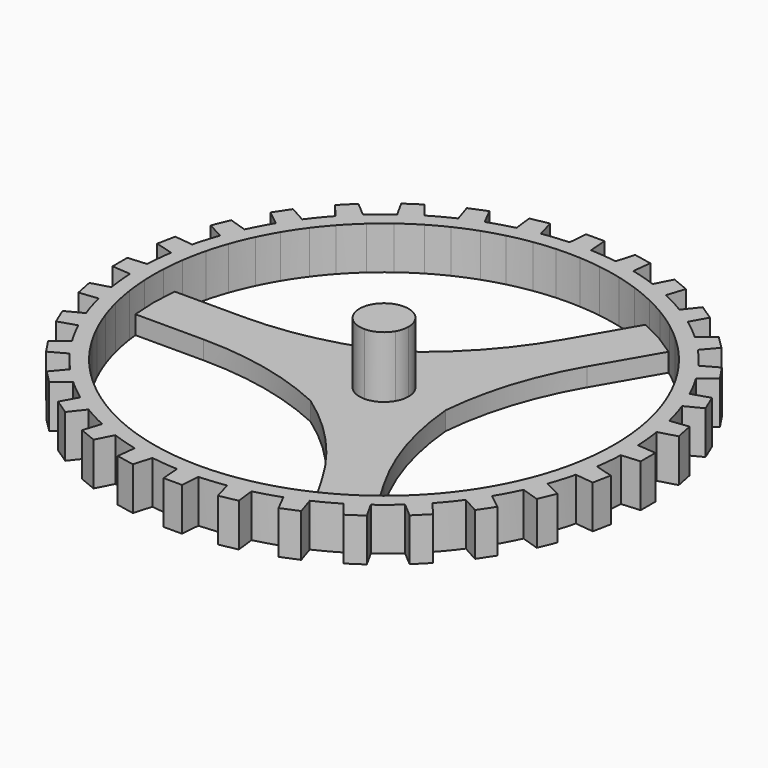
from build123d import *

# Parameters (mm, degrees)
F1_DEPTH = 17.78
F3_DEPTH = 7.62
F4_DEPTH = 33.02


with BuildPart() as f1:
    # F0 (on Top) → F1 (new body)
    with BuildSketch(Plane.XY):
        with BuildLine():
            Line((101.6, 0), (95.25, 0))
            ThreePointArc((95.25, 0), (95.2177183074, -2.479641169), (95.1208951112, -4.9576015607))
            Line((95.1208951112, -4.9576015607), (101.503019832, -4.4381262927))
            ThreePointArc((101.503019832, -4.4381262927), (101.5757520645, -2.2195928761), (101.6, 0))
        make_face()
        with BuildLine():
            ThreePointArc((95.1208951112, 4.9576015607), (95.2177183074, 2.479641169), (95.25, 0))
            Line((95.25, 0), (101.6, 0))
            ThreePointArc((101.6, 0), (101.5757520645, 2.2195928761), (101.503019832, 4.4381262927))
            Line((101.503019832, 4.4381262927), (95.1208951112, 4.9576015607))
        make_face()
        with BuildLine():
            ThreePointArc((94.2603538688, 13.6948234209), (94.7913452155, 9.3361326164), (95.1208951112, 4.9576015607))
            Line((95.1208951112, 4.9576015607), (101.503019832, 4.4381262927))
            ThreePointArc((101.503019832, 4.4381262927), (101.1107682299, 9.9585414575), (100.4185032553, 15.4494078841))
            Line((100.4185032553, 15.4494078841), (94.2603538688, 13.6948234209))
        make_face()
        with BuildLine():
            Line((101.503019832, -4.4381262927), (95.1208951112, -4.9576015607))
            ThreePointArc((95.1208951112, -4.9576015607), (94.7913452155, -9.3361326164), (94.2603538688, -13.6948234209))
            Line((94.2603538688, -13.6948234209), (100.4185032553, -15.4494078841))
            ThreePointArc((100.4185032553, -15.4494078841), (101.1107682299, -9.9585414575), (101.503019832, -4.4381262927))
        make_face()
        with BuildLine():
            Line((109.22, 0), (101.6, 0))
            ThreePointArc((101.6, 0), (101.5757520645, -2.2195928761), (101.503019832, -4.4381262927))
            Line((101.503019832, -4.4381262927), (109.22, -3.81))
            Line((109.22, -3.81), (109.22, 0))
        make_face()
        with BuildLine():
            ThreePointArc((101.503019832, 4.4381262927), (101.5757520645, 2.2195928761), (101.6, 0))
            Line((101.6, 0), (109.22, 0))
            Line((109.22, 0), (109.22, 3.81))
            Line((109.22, 3.81), (101.503019832, 4.4381262927))
        make_face()
        with BuildLine():
            ThreePointArc((92.325993699, 23.4195086946), (93.4197979584, 18.582353172), (94.2603538688, 13.6948234209))
            Line((94.2603538688, 13.6948234209), (100.4185032553, 15.4494078841))
            ThreePointArc((100.4185032553, 15.4494078841), (99.647784489, 19.8211767168), (98.6868322801, 24.1551057651))
            Line((98.6868322801, 24.1551057651), (92.325993699, 23.4195086946))
        make_face()
        with BuildLine():
            Line((100.4185032553, -15.4494078841), (94.2603538688, -13.6948234209))
            ThreePointArc((94.2603538688, -13.6948234209), (93.4197979584, -18.582353172), (92.325993699, -23.4195086946))
            Line((92.325993699, -23.4195086946), (98.6868322801, -24.1551057651))
            ThreePointArc((98.6868322801, -24.1551057651), (99.647784489, -19.8211767168), (100.4185032553, -15.4494078841))
        make_face()
        with BuildLine():
            ThreePointArc((89.777440089, 31.8209640185), (91.1485669785, 27.6496155085), (92.325993699, 23.4195086946))
            Line((92.325993699, 23.4195086946), (98.6868322801, 24.1551057651))
            ThreePointArc((98.6868322801, 24.1551057651), (97.2251381104, 29.4929232091), (95.4749599138, 34.7432299802))
            Line((95.4749599138, 34.7432299802), (89.777440089, 31.8209640185))
        make_face()
        with BuildLine():
            ThreePointArc((98.6868322801, 24.1551057651), (99.647784489, 19.8211767168), (100.4185032553, 15.4494078841))
            Line((100.4185032553, 15.4494078841), (107.8646624525, 17.5709730523))
            Line((107.8646624525, 17.5709730523), (106.3780741988, 25.0445568889))
            Line((106.3780741988, 25.0445568889), (98.6868322801, 24.1551057651))
        make_face()
        with BuildLine():
            Line((98.6868322801, -24.1551057651), (92.325993699, -23.4195086946))
            ThreePointArc((92.325993699, -23.4195086946), (91.1485669785, -27.6496155085), (89.777440089, -31.8209640185))
            Line((89.777440089, -31.8209640185), (95.4749599138, -34.7432299802))
            ThreePointArc((95.4749599138, -34.7432299802), (97.2251381104, -29.4929232091), (98.6868322801, -24.1551057651))
        make_face()
        with BuildLine():
            Line((107.8646624525, -17.5709730523), (100.4185032553, -15.4494078841))
            ThreePointArc((100.4185032553, -15.4494078841), (99.647784489, -19.8211767168), (98.6868322801, -24.1551057651))
            Line((98.6868322801, -24.1551057651), (106.3780741988, -25.0445568889))
            Line((106.3780741988, -25.0445568889), (107.8646624525, -17.5709730523))
        make_face()
        with BuildLine():
            ThreePointArc((85.9830561259, 40.9814172431), (87.9995254717, 36.4505969328), (89.777440089, 31.8209640185))
            Line((89.777440089, 31.8209640185), (95.4749599138, 34.7432299802))
            ThreePointArc((95.4749599138, 34.7432299802), (93.8661605031, 38.8806367283), (92.0781651079, 42.9438180693))
            Line((92.0781651079, 42.9438180693), (85.9830561259, 40.9814172431))
        make_face()
        with BuildLine():
            Line((95.4749599138, -34.7432299802), (89.777440089, -31.8209640185))
            ThreePointArc((89.777440089, -31.8209640185), (87.9995254717, -36.4505969328), (85.9830561259, -40.9814172431))
            Line((85.9830561259, -40.9814172431), (92.0781651079, -42.9438180693))
            ThreePointArc((92.0781651079, -42.9438180693), (93.8661605031, -38.8806367283), (95.4749599138, -34.7432299802))
        make_face()
        with BuildLine():
            ThreePointArc((81.8444296343, 48.7242428144), (84.0030004292, 44.9005391827), (85.9830561259, 40.9814172431))
            Line((85.9830561259, 40.9814172431), (92.0781651079, 42.9438180693))
            ThreePointArc((92.0781651079, 42.9438180693), (89.6032004578, 47.8939084615), (86.8623674059, 52.7018892323))
            Line((86.8623674059, 52.7018892323), (81.8444296343, 48.7242428144))
        make_face()
        with BuildLine():
            ThreePointArc((92.0781651079, 42.9438180693), (93.8661605031, 38.8806367283), (95.4749599138, 34.7432299802))
            Line((95.4749599138, 34.7432299802), (102.3641464182, 38.276703464))
            Line((102.3641464182, 38.276703464), (99.4480986636, 45.3166655018))
            Line((99.4480986636, 45.3166655018), (92.0781651079, 42.9438180693))
        make_face()
        with BuildLine():
            Line((92.0781651079, -42.9438180693), (85.9830561259, -40.9814172431))
            ThreePointArc((85.9830561259, -40.9814172431), (84.0030004292, -44.9005391827), (81.8444296343, -48.7242428144))
            Line((81.8444296343, -48.7242428144), (86.8623674059, -52.7018892323))
            ThreePointArc((86.8623674059, -52.7018892323), (89.6032004578, -47.8939084615), (92.0781651079, -42.9438180693))
        make_face()
        with BuildLine():
            Line((102.3641464182, -38.276703464), (95.4749599138, -34.7432299802))
            ThreePointArc((95.4749599138, -34.7432299802), (93.8661605031, -38.8806367283), (92.0781651079, -42.9438180693))
            Line((92.0781651079, -42.9438180693), (99.4480986636, -45.3166655018))
            Line((99.4480986636, -45.3166655018), (102.3641464182, -38.276703464))
        make_face()
        with BuildLine():
            ThreePointArc((76.3358379257, 56.9684329096), (79.1974805718, 52.9180646951), (81.8444296343, 48.7242428144))
            Line((81.8444296343, 48.7242428144), (86.8623674059, 52.7018892323))
            ThreePointArc((86.8623674059, 52.7018892323), (84.4773126099, 56.4459356748), (81.9309856886, 60.0822235282))
            Line((81.9309856886, 60.0822235282), (76.3358379257, 56.9684329096))
        make_face()
        with BuildLine():
            Line((86.8623674059, -52.7018892323), (81.8444296343, -48.7242428144))
            ThreePointArc((81.8444296343, -48.7242428144), (79.1974805718, -52.9180646951), (76.3358379257, -56.9684329096))
            Line((76.3358379257, -56.9684329096), (81.9309856886, -60.0822235282))
            ThreePointArc((81.9309856886, -60.0822235282), (84.4773126099, -56.4459356748), (86.8623674059, -52.7018892323))
        make_face()
        with BuildLine():
            ThreePointArc((70.7661836477, 63.7550762837), (73.6292456828, 60.4259603166), (76.3358379257, 56.9684329096))
            Line((76.3358379257, 56.9684329096), (81.9309856886, 60.0822235282))
            ThreePointArc((81.9309856886, 60.0822235282), (78.5378620617, 64.454357671), (74.9117028315, 68.6352444367))
            Line((74.9117028315, 68.6352444367), (70.7661836477, 63.7550762837))
        make_face()
        with BuildLine():
            ThreePointArc((81.9309856886, 60.0822235282), (84.4773126099, 56.4459356748), (86.8623674059, 52.7018892323))
            Line((86.8623674059, 52.7018892323), (92.9298336435, 57.5114816275))
            Line((92.9298336435, 57.5114816275), (88.6963884679, 63.8472800733))
            Line((88.6963884679, 63.8472800733), (81.9309856886, 60.0822235282))
        make_face()
        with BuildLine():
            Line((81.9309856886, -60.0822235282), (76.3358379257, -56.9684329096))
            ThreePointArc((76.3358379257, -56.9684329096), (73.6292456828, -60.4259603166), (70.7661836477, -63.7550762837))
            Line((70.7661836477, -63.7550762837), (74.9117028315, -68.6352444367))
            ThreePointArc((74.9117028315, -68.6352444367), (78.5378620617, -64.454357671), (81.9309856886, -60.0822235282))
        make_face()
        with BuildLine():
            Line((92.9298336435, -57.5114816275), (86.8623674059, -52.7018892323))
            ThreePointArc((86.8623674059, -52.7018892323), (84.4773126099, -56.4459356748), (81.9309856886, -60.0822235282))
            Line((81.9309856886, -60.0822235282), (88.6963884679, -63.8472800733))
            Line((88.6963884679, -63.8472800733), (92.9298336435, -57.5114816275))
        make_face()
        with BuildLine():
            ThreePointArc((63.7550762837, 70.7661836477), (67.351920908, 67.351920908), (70.7661836477, 63.7550762837))
            Line((70.7661836477, 63.7550762837), (74.9117028315, 68.6352444367))
            ThreePointArc((74.9117028315, 68.6352444367), (71.8420489686, 71.8420489686), (68.6352444367, 74.9117028315))
            Line((68.6352444367, 74.9117028315), (63.7550762837, 70.7661836477))
        make_face()
        with BuildLine():
            Line((74.9117028315, -68.6352444367), (70.7661836477, -63.7550762837))
            ThreePointArc((70.7661836477, -63.7550762837), (67.351920908, -67.351920908), (63.7550762837, -70.7661836477))
            Line((63.7550762837, -70.7661836477), (68.6352444367, -74.9117028315))
            ThreePointArc((68.6352444367, -74.9117028315), (71.8420489686, -71.8420489686), (74.9117028315, -68.6352444367))
        make_face()
        with BuildLine():
            ThreePointArc((56.9684329096, 76.3358379257), (60.4259603166, 73.6292456828), (63.7550762837, 70.7661836477))
            Line((63.7550762837, 70.7661836477), (68.6352444367, 74.9117028315))
            ThreePointArc((68.6352444367, 74.9117028315), (64.454357671, 78.5378620617), (60.0822235282, 81.9309856886))
            Line((60.0822235282, 81.9309856886), (56.9684329096, 76.3358379257))
        make_face()
        with BuildLine():
            ThreePointArc((68.6352444367, 74.9117028315), (71.8420489686, 71.8420489686), (74.9117028315, 68.6352444367))
            Line((74.9117028315, 68.6352444367), (79.9242794775, 74.5361258049))
            Line((79.9242794775, 74.5361258049), (74.5361258049, 79.9242794775))
            Line((74.5361258049, 79.9242794775), (68.6352444367, 74.9117028315))
        make_face()
        with BuildLine():
            Line((68.6352444367, -74.9117028315), (63.7550762837, -70.7661836477))
            ThreePointArc((63.7550762837, -70.7661836477), (60.4259603166, -73.6292456828), (56.9684329096, -76.3358379257))
            Line((56.9684329096, -76.3358379257), (60.0822235282, -81.9309856886))
            ThreePointArc((60.0822235282, -81.9309856886), (64.454357671, -78.5378620617), (68.6352444367, -74.9117028315))
        make_face()
        with BuildLine():
            Line((79.9242794775, -74.5361258049), (74.9117028315, -68.6352444367))
            ThreePointArc((74.9117028315, -68.6352444367), (71.8420489686, -71.8420489686), (68.6352444367, -74.9117028315))
            Line((68.6352444367, -74.9117028315), (74.5361258049, -79.9242794775))
            Line((74.5361258049, -79.9242794775), (79.9242794775, -74.5361258049))
        make_face()
        with BuildLine():
            ThreePointArc((48.7242428144, 81.8444296343), (52.9180646951, 79.1974805718), (56.9684329096, 76.3358379257))
            Line((56.9684329096, 76.3358379257), (60.0822235282, 81.9309856886))
            ThreePointArc((60.0822235282, 81.9309856886), (56.4459356748, 84.4773126099), (52.7018892323, 86.8623674059))
            Line((52.7018892323, 86.8623674059), (48.7242428144, 81.8444296343))
        make_face()
        with BuildLine():
            Line((60.0822235282, -81.9309856886), (56.9684329096, -76.3358379257))
            ThreePointArc((56.9684329096, -76.3358379257), (52.9180646951, -79.1974805718), (48.7242428144, -81.8444296343))
            Line((48.7242428144, -81.8444296343), (52.7018892323, -86.8623674059))
            ThreePointArc((52.7018892323, -86.8623674059), (56.4459356748, -84.4773126099), (60.0822235282, -81.9309856886))
        make_face()
        with BuildLine():
            ThreePointArc((40.9814172431, 85.9830561259), (44.9005391827, 84.0030004292), (48.7242428144, 81.8444296343))
            Line((48.7242428144, 81.8444296343), (52.7018892323, 86.8623674059))
            ThreePointArc((52.7018892323, 86.8623674059), (47.8939084615, 89.6032004578), (42.9438180693, 92.0781651079))
            Line((42.9438180693, 92.0781651079), (40.9814172431, 85.9830561259))
        make_face()
        with BuildLine():
            ThreePointArc((52.7018892323, 86.8623674059), (56.4459356748, 84.4773126099), (60.0822235282, 81.9309856886))
            Line((60.0822235282, 81.9309856886), (63.8472800733, 88.6963884679))
            Line((63.8472800733, 88.6963884679), (57.5114816275, 92.9298336435))
            Line((57.5114816275, 92.9298336435), (52.7018892323, 86.8623674059))
        make_face()
        with BuildLine():
            Line((52.7018892323, -86.8623674059), (48.7242428144, -81.8444296343))
            ThreePointArc((48.7242428144, -81.8444296343), (44.9005391827, -84.0030004292), (40.9814172431, -85.9830561259))
            Line((40.9814172431, -85.9830561259), (42.9438180693, -92.0781651079))
            ThreePointArc((42.9438180693, -92.0781651079), (47.8939084615, -89.6032004578), (52.7018892323, -86.8623674059))
        make_face()
        with BuildLine():
            Line((63.8472800733, -88.6963884679), (60.0822235282, -81.9309856886))
            ThreePointArc((60.0822235282, -81.9309856886), (56.4459356748, -84.4773126099), (52.7018892323, -86.8623674059))
            Line((52.7018892323, -86.8623674059), (57.5114816275, -92.9298336435))
            Line((57.5114816275, -92.9298336435), (63.8472800733, -88.6963884679))
        make_face()
        with BuildLine():
            ThreePointArc((31.8209640185, 89.777440089), (36.4505969328, 87.9995254717), (40.9814172431, 85.9830561259))
            Line((40.9814172431, 85.9830561259), (42.9438180693, 92.0781651079))
            ThreePointArc((42.9438180693, 92.0781651079), (38.8806367283, 93.8661605031), (34.7432299802, 95.4749599138))
            Line((34.7432299802, 95.4749599138), (31.8209640185, 89.777440089))
        make_face()
        with BuildLine():
            Line((42.9438180693, -92.0781651079), (40.9814172431, -85.9830561259))
            ThreePointArc((40.9814172431, -85.9830561259), (36.4505969328, -87.9995254717), (31.8209640185, -89.777440089))
            Line((31.8209640185, -89.777440089), (34.7432299802, -95.4749599138))
            ThreePointArc((34.7432299802, -95.4749599138), (38.8806367283, -93.8661605031), (42.9438180693, -92.0781651079))
        make_face()
        with BuildLine():
            ThreePointArc((23.4195086946, 92.325993699), (27.6496155085, 91.1485669785), (31.8209640185, 89.777440089))
            Line((31.8209640185, 89.777440089), (34.7432299802, 95.4749599138))
            ThreePointArc((34.7432299802, 95.4749599138), (29.4929232091, 97.2251381104), (24.1551057651, 98.6868322801))
            Line((24.1551057651, 98.6868322801), (23.4195086946, 92.325993699))
        make_face()
        with BuildLine():
            ThreePointArc((34.7432299802, 95.4749599138), (38.8806367283, 93.8661605031), (42.9438180693, 92.0781651079))
            Line((42.9438180693, 92.0781651079), (45.3166655018, 99.4480986636))
            Line((45.3166655018, 99.4480986636), (38.276703464, 102.3641464182))
            Line((38.276703464, 102.3641464182), (34.7432299802, 95.4749599138))
        make_face()
        with BuildLine():
            Line((34.7432299802, -95.4749599138), (31.8209640185, -89.777440089))
            ThreePointArc((31.8209640185, -89.777440089), (27.6496155085, -91.1485669785), (23.4195086946, -92.325993699))
            Line((23.4195086946, -92.325993699), (24.1551057651, -98.6868322801))
            ThreePointArc((24.1551057651, -98.6868322801), (29.4929232091, -97.2251381104), (34.7432299802, -95.4749599138))
        make_face()
        with BuildLine():
            Line((45.3166655018, -99.4480986636), (42.9438180693, -92.0781651079))
            ThreePointArc((42.9438180693, -92.0781651079), (38.8806367283, -93.8661605031), (34.7432299802, -95.4749599138))
            Line((34.7432299802, -95.4749599138), (38.276703464, -102.3641464182))
            Line((38.276703464, -102.3641464182), (45.3166655018, -99.4480986636))
        make_face()
        with BuildLine():
            ThreePointArc((13.6948234209, 94.2603538688), (18.582353172, 93.4197979584), (23.4195086946, 92.325993699))
            Line((23.4195086946, 92.325993699), (24.1551057651, 98.6868322801))
            ThreePointArc((24.1551057651, 98.6868322801), (19.8211767168, 99.647784489), (15.4494078841, 100.4185032553))
            Line((15.4494078841, 100.4185032553), (13.6948234209, 94.2603538688))
        make_face()
        with BuildLine():
            Line((24.1551057651, -98.6868322801), (23.4195086946, -92.325993699))
            ThreePointArc((23.4195086946, -92.325993699), (18.582353172, -93.4197979584), (13.6948234209, -94.2603538688))
            Line((13.6948234209, -94.2603538688), (15.4494078841, -100.4185032553))
            ThreePointArc((15.4494078841, -100.4185032553), (19.8211767168, -99.647784489), (24.1551057651, -98.6868322801))
        make_face()
        with BuildLine():
            ThreePointArc((4.9576015607, 95.1208951112), (9.3361326164, 94.7913452155), (13.6948234209, 94.2603538688))
            Line((13.6948234209, 94.2603538688), (15.4494078841, 100.4185032553))
            ThreePointArc((15.4494078841, 100.4185032553), (9.9585414575, 101.1107682299), (4.4381262927, 101.503019832))
            Line((4.4381262927, 101.503019832), (4.9576015607, 95.1208951112))
        make_face()
        with BuildLine():
            ThreePointArc((15.4494078841, 100.4185032553), (19.8211767168, 99.647784489), (24.1551057651, 98.6868322801))
            Line((24.1551057651, 98.6868322801), (25.0445568889, 106.3780741988))
            Line((25.0445568889, 106.3780741988), (17.5709730523, 107.8646624525))
            Line((17.5709730523, 107.8646624525), (15.4494078841, 100.4185032553))
        make_face()
        with BuildLine():
            Line((15.4494078841, -100.4185032553), (13.6948234209, -94.2603538688))
            ThreePointArc((13.6948234209, -94.2603538688), (9.3361326164, -94.7913452155), (4.9576015607, -95.1208951112))
            Line((4.9576015607, -95.1208951112), (4.4381262927, -101.503019832))
            ThreePointArc((4.4381262927, -101.503019832), (9.9585414575, -101.1107682299), (15.4494078841, -100.4185032553))
        make_face()
        with BuildLine():
            Line((25.0445568889, -106.3780741988), (24.1551057651, -98.6868322801))
            ThreePointArc((24.1551057651, -98.6868322801), (19.8211767168, -99.647784489), (15.4494078841, -100.4185032553))
            Line((15.4494078841, -100.4185032553), (17.5709730523, -107.8646624525))
            Line((17.5709730523, -107.8646624525), (25.0445568889, -106.3780741988))
        make_face()
        with BuildLine():
            ThreePointArc((-4.9576015607, 95.1208951112), (0, 95.25), (4.9576015607, 95.1208951112))
            Line((4.9576015607, 95.1208951112), (4.4381262927, 101.503019832))
            ThreePointArc((4.4381262927, 101.503019832), (0, 101.6), (-4.4381262927, 101.503019832))
            Line((-4.4381262927, 101.503019832), (-4.9576015607, 95.1208951112))
        make_face()
        with BuildLine():
            ThreePointArc((-13.6948234209, 94.2603538688), (-9.3361326164, 94.7913452155), (-4.9576015607, 95.1208951112))
            Line((-4.9576015607, 95.1208951112), (-4.4381262927, 101.503019832))
            ThreePointArc((-4.4381262927, 101.503019832), (-9.9585414575, 101.1107682299), (-15.4494078841, 100.4185032553))
            Line((-15.4494078841, 100.4185032553), (-13.6948234209, 94.2603538688))
        make_face()
        with BuildLine():
            ThreePointArc((-23.4195086946, 92.325993699), (-18.582353172, 93.4197979584), (-13.6948234209, 94.2603538688))
            Line((-13.6948234209, 94.2603538688), (-15.4494078841, 100.4185032553))
            ThreePointArc((-15.4494078841, 100.4185032553), (-19.8211767168, 99.647784489), (-24.1551057651, 98.6868322801))
            Line((-24.1551057651, 98.6868322801), (-23.4195086946, 92.325993699))
        make_face()
        with BuildLine():
            ThreePointArc((-31.8209640185, 89.777440089), (-27.6496155085, 91.1485669785), (-23.4195086946, 92.325993699))
            Line((-23.4195086946, 92.325993699), (-24.1551057651, 98.6868322801))
            ThreePointArc((-24.1551057651, 98.6868322801), (-29.4929232091, 97.2251381104), (-34.7432299802, 95.4749599138))
            Line((-34.7432299802, 95.4749599138), (-31.8209640185, 89.777440089))
        make_face()
        with BuildLine():
            ThreePointArc((-40.9814172431, 85.9830561259), (-36.4505969328, 87.9995254717), (-31.8209640185, 89.777440089))
            Line((-31.8209640185, 89.777440089), (-34.7432299802, 95.4749599138))
            ThreePointArc((-34.7432299802, 95.4749599138), (-38.8806367283, 93.8661605031), (-42.9438180693, 92.0781651079))
            Line((-42.9438180693, 92.0781651079), (-40.9814172431, 85.9830561259))
        make_face()
        with BuildLine():
            ThreePointArc((-48.7242428144, 81.8444296343), (-44.9005391827, 84.0030004292), (-40.9814172431, 85.9830561259))
            Line((-40.9814172431, 85.9830561259), (-42.9438180693, 92.0781651079))
            ThreePointArc((-42.9438180693, 92.0781651079), (-47.8939084615, 89.6032004578), (-52.7018892323, 86.8623674059))
            Line((-52.7018892323, 86.8623674059), (-48.7242428144, 81.8444296343))
        make_face()
        with BuildLine():
            ThreePointArc((-56.9684329096, 76.3358379257), (-52.9180646951, 79.1974805718), (-48.7242428144, 81.8444296343))
            Line((-48.7242428144, 81.8444296343), (-52.7018892323, 86.8623674059))
            ThreePointArc((-52.7018892323, 86.8623674059), (-56.4459356748, 84.4773126099), (-60.0822235282, 81.9309856886))
            Line((-60.0822235282, 81.9309856886), (-56.9684329096, 76.3358379257))
        make_face()
        with BuildLine():
            ThreePointArc((-63.7550762837, 70.7661836477), (-60.4259603166, 73.6292456828), (-56.9684329096, 76.3358379257))
            Line((-56.9684329096, 76.3358379257), (-60.0822235282, 81.9309856886))
            ThreePointArc((-60.0822235282, 81.9309856886), (-64.454357671, 78.5378620617), (-68.6352444367, 74.9117028315))
            Line((-68.6352444367, 74.9117028315), (-63.7550762837, 70.7661836477))
        make_face()
        with BuildLine():
            ThreePointArc((-70.7661836477, 63.7550762837), (-67.351920908, 67.351920908), (-63.7550762837, 70.7661836477))
            Line((-63.7550762837, 70.7661836477), (-68.6352444367, 74.9117028315))
            ThreePointArc((-68.6352444367, 74.9117028315), (-71.8420489686, 71.8420489686), (-74.9117028315, 68.6352444367))
            Line((-74.9117028315, 68.6352444367), (-70.7661836477, 63.7550762837))
        make_face()
        with BuildLine():
            ThreePointArc((-76.3358379257, 56.9684329096), (-73.6292456828, 60.4259603166), (-70.7661836477, 63.7550762837))
            Line((-70.7661836477, 63.7550762837), (-74.9117028315, 68.6352444367))
            ThreePointArc((-74.9117028315, 68.6352444367), (-78.5378620617, 64.454357671), (-81.9309856886, 60.0822235282))
            Line((-81.9309856886, 60.0822235282), (-76.3358379257, 56.9684329096))
        make_face()
        with BuildLine():
            ThreePointArc((-81.8444296343, 48.7242428144), (-79.1974805718, 52.9180646951), (-76.3358379257, 56.9684329096))
            Line((-76.3358379257, 56.9684329096), (-81.9309856886, 60.0822235282))
            ThreePointArc((-81.9309856886, 60.0822235282), (-84.4773126099, 56.4459356748), (-86.8623674059, 52.7018892323))
            Line((-86.8623674059, 52.7018892323), (-81.8444296343, 48.7242428144))
        make_face()
        with BuildLine():
            ThreePointArc((-85.9830561259, 40.9814172431), (-84.0030004292, 44.9005391827), (-81.8444296343, 48.7242428144))
            Line((-81.8444296343, 48.7242428144), (-86.8623674059, 52.7018892323))
            ThreePointArc((-86.8623674059, 52.7018892323), (-89.6032004578, 47.8939084615), (-92.0781651079, 42.9438180693))
            Line((-92.0781651079, 42.9438180693), (-85.9830561259, 40.9814172431))
        make_face()
        with BuildLine():
            ThreePointArc((-89.777440089, 31.8209640185), (-87.9995254717, 36.4505969328), (-85.9830561259, 40.9814172431))
            Line((-85.9830561259, 40.9814172431), (-92.0781651079, 42.9438180693))
            ThreePointArc((-92.0781651079, 42.9438180693), (-93.8661605031, 38.8806367283), (-95.4749599138, 34.7432299802))
            Line((-95.4749599138, 34.7432299802), (-89.777440089, 31.8209640185))
        make_face()
        with BuildLine():
            ThreePointArc((-92.325993699, 23.4195086946), (-91.1485669785, 27.6496155085), (-89.777440089, 31.8209640185))
            Line((-89.777440089, 31.8209640185), (-95.4749599138, 34.7432299802))
            ThreePointArc((-95.4749599138, 34.7432299802), (-97.2251381104, 29.4929232091), (-98.6868322801, 24.1551057651))
            Line((-98.6868322801, 24.1551057651), (-92.325993699, 23.4195086946))
        make_face()
        with BuildLine():
            ThreePointArc((-94.2603538688, 13.6948234209), (-93.4197979584, 18.582353172), (-92.325993699, 23.4195086946))
            Line((-92.325993699, 23.4195086946), (-98.6868322801, 24.1551057651))
            ThreePointArc((-98.6868322801, 24.1551057651), (-99.647784489, 19.8211767168), (-100.4185032553, 15.4494078841))
            Line((-100.4185032553, 15.4494078841), (-94.2603538688, 13.6948234209))
        make_face()
        with BuildLine():
            Line((-98.6868322801, -24.1551057651), (-92.325993699, -23.4195086946))
            ThreePointArc((-92.325993699, -23.4195086946), (-93.4197979584, -18.582353172), (-94.2603538688, -13.6948234209))
            Line((-94.2603538688, -13.6948234209), (-100.4185032553, -15.4494078841))
            ThreePointArc((-100.4185032553, -15.4494078841), (-99.647784489, -19.8211767168), (-98.6868322801, -24.1551057651))
        make_face()
        with BuildLine():
            ThreePointArc((-89.777440089, -31.8209640185), (-91.1485669785, -27.6496155085), (-92.325993699, -23.4195086946))
            Line((-92.325993699, -23.4195086946), (-98.6868322801, -24.1551057651))
            ThreePointArc((-98.6868322801, -24.1551057651), (-97.2251381104, -29.4929232091), (-95.4749599138, -34.7432299802))
            Line((-95.4749599138, -34.7432299802), (-89.777440089, -31.8209640185))
        make_face()
        with BuildLine():
            ThreePointArc((-85.9830561259, -40.9814172431), (-87.9995254717, -36.4505969328), (-89.777440089, -31.8209640185))
            Line((-89.777440089, -31.8209640185), (-95.4749599138, -34.7432299802))
            ThreePointArc((-95.4749599138, -34.7432299802), (-93.8661605031, -38.8806367283), (-92.0781651079, -42.9438180693))
            Line((-92.0781651079, -42.9438180693), (-85.9830561259, -40.9814172431))
        make_face()
        with BuildLine():
            ThreePointArc((-81.8444296343, -48.7242428144), (-84.0030004292, -44.9005391827), (-85.9830561259, -40.9814172431))
            Line((-85.9830561259, -40.9814172431), (-92.0781651079, -42.9438180693))
            ThreePointArc((-92.0781651079, -42.9438180693), (-89.6032004578, -47.8939084615), (-86.8623674059, -52.7018892323))
            Line((-86.8623674059, -52.7018892323), (-81.8444296343, -48.7242428144))
        make_face()
        with BuildLine():
            ThreePointArc((-76.3358379257, -56.9684329096), (-79.1974805718, -52.9180646951), (-81.8444296343, -48.7242428144))
            Line((-81.8444296343, -48.7242428144), (-86.8623674059, -52.7018892323))
            ThreePointArc((-86.8623674059, -52.7018892323), (-84.4773126099, -56.4459356748), (-81.9309856886, -60.0822235282))
            Line((-81.9309856886, -60.0822235282), (-76.3358379257, -56.9684329096))
        make_face()
        with BuildLine():
            ThreePointArc((-70.7661836477, -63.7550762837), (-73.6292456828, -60.4259603166), (-76.3358379257, -56.9684329096))
            Line((-76.3358379257, -56.9684329096), (-81.9309856886, -60.0822235282))
            ThreePointArc((-81.9309856886, -60.0822235282), (-78.5378620617, -64.454357671), (-74.9117028315, -68.6352444367))
            Line((-74.9117028315, -68.6352444367), (-70.7661836477, -63.7550762837))
        make_face()
        with BuildLine():
            ThreePointArc((-63.7550762837, -70.7661836477), (-67.351920908, -67.351920908), (-70.7661836477, -63.7550762837))
            Line((-70.7661836477, -63.7550762837), (-74.9117028315, -68.6352444367))
            ThreePointArc((-74.9117028315, -68.6352444367), (-71.8420489686, -71.8420489686), (-68.6352444367, -74.9117028315))
            Line((-68.6352444367, -74.9117028315), (-63.7550762837, -70.7661836477))
        make_face()
        with BuildLine():
            ThreePointArc((-56.9684329096, -76.3358379257), (-60.4259603166, -73.6292456828), (-63.7550762837, -70.7661836477))
            Line((-63.7550762837, -70.7661836477), (-68.6352444367, -74.9117028315))
            ThreePointArc((-68.6352444367, -74.9117028315), (-64.454357671, -78.5378620617), (-60.0822235282, -81.9309856886))
            Line((-60.0822235282, -81.9309856886), (-56.9684329096, -76.3358379257))
        make_face()
        with BuildLine():
            ThreePointArc((-48.7242428144, -81.8444296343), (-52.9180646951, -79.1974805718), (-56.9684329096, -76.3358379257))
            Line((-56.9684329096, -76.3358379257), (-60.0822235282, -81.9309856886))
            ThreePointArc((-60.0822235282, -81.9309856886), (-56.4459356748, -84.4773126099), (-52.7018892323, -86.8623674059))
            Line((-52.7018892323, -86.8623674059), (-48.7242428144, -81.8444296343))
        make_face()
        with BuildLine():
            ThreePointArc((-40.9814172431, -85.9830561259), (-44.9005391827, -84.0030004292), (-48.7242428144, -81.8444296343))
            Line((-48.7242428144, -81.8444296343), (-52.7018892323, -86.8623674059))
            ThreePointArc((-52.7018892323, -86.8623674059), (-47.8939084615, -89.6032004578), (-42.9438180693, -92.0781651079))
            Line((-42.9438180693, -92.0781651079), (-40.9814172431, -85.9830561259))
        make_face()
        with BuildLine():
            ThreePointArc((-31.8209640185, -89.777440089), (-36.4505969328, -87.9995254717), (-40.9814172431, -85.9830561259))
            Line((-40.9814172431, -85.9830561259), (-42.9438180693, -92.0781651079))
            ThreePointArc((-42.9438180693, -92.0781651079), (-38.8806367283, -93.8661605031), (-34.7432299802, -95.4749599138))
            Line((-34.7432299802, -95.4749599138), (-31.8209640185, -89.777440089))
        make_face()
        with BuildLine():
            ThreePointArc((-23.4195086946, -92.325993699), (-27.6496155085, -91.1485669785), (-31.8209640185, -89.777440089))
            Line((-31.8209640185, -89.777440089), (-34.7432299802, -95.4749599138))
            ThreePointArc((-34.7432299802, -95.4749599138), (-29.4929232091, -97.2251381104), (-24.1551057651, -98.6868322801))
            Line((-24.1551057651, -98.6868322801), (-23.4195086946, -92.325993699))
        make_face()
        with BuildLine():
            ThreePointArc((-13.6948234209, -94.2603538688), (-18.582353172, -93.4197979584), (-23.4195086946, -92.325993699))
            Line((-23.4195086946, -92.325993699), (-24.1551057651, -98.6868322801))
            ThreePointArc((-24.1551057651, -98.6868322801), (-19.8211767168, -99.647784489), (-15.4494078841, -100.4185032553))
            Line((-15.4494078841, -100.4185032553), (-13.6948234209, -94.2603538688))
        make_face()
        with BuildLine():
            ThreePointArc((-4.9576015607, -95.1208951112), (-9.3361326164, -94.7913452155), (-13.6948234209, -94.2603538688))
            Line((-13.6948234209, -94.2603538688), (-15.4494078841, -100.4185032553))
            ThreePointArc((-15.4494078841, -100.4185032553), (-9.9585414575, -101.1107682299), (-4.4381262927, -101.503019832))
            Line((-4.4381262927, -101.503019832), (-4.9576015607, -95.1208951112))
        make_face()
        with BuildLine():
            ThreePointArc((4.9576015607, -95.1208951112), (0, -95.25), (-4.9576015607, -95.1208951112))
            Line((-4.9576015607, -95.1208951112), (-4.4381262927, -101.503019832))
            ThreePointArc((-4.4381262927, -101.503019832), (0, -101.6), (4.4381262927, -101.503019832))
            Line((4.4381262927, -101.503019832), (4.9576015607, -95.1208951112))
        make_face()
        with BuildLine():
            ThreePointArc((-4.4381262927, 101.503019832), (0, 101.6), (4.4381262927, 101.503019832))
            Line((4.4381262927, 101.503019832), (3.81, 109.22))
            Line((3.81, 109.22), (-3.81, 109.22))
            Line((-3.81, 109.22), (-4.4381262927, 101.503019832))
        make_face()
        with BuildLine():
            ThreePointArc((-24.1551057651, 98.6868322801), (-19.8211767168, 99.647784489), (-15.4494078841, 100.4185032553))
            Line((-15.4494078841, 100.4185032553), (-17.5709730523, 107.8646624525))
            Line((-17.5709730523, 107.8646624525), (-25.0445568889, 106.3780741988))
            Line((-25.0445568889, 106.3780741988), (-24.1551057651, 98.6868322801))
        make_face()
        with BuildLine():
            ThreePointArc((-42.9438180693, 92.0781651079), (-38.8806367283, 93.8661605031), (-34.7432299802, 95.4749599138))
            Line((-34.7432299802, 95.4749599138), (-38.276703464, 102.3641464182))
            Line((-38.276703464, 102.3641464182), (-45.3166655018, 99.4480986636))
            Line((-45.3166655018, 99.4480986636), (-42.9438180693, 92.0781651079))
        make_face()
        with BuildLine():
            ThreePointArc((-60.0822235282, 81.9309856886), (-56.4459356748, 84.4773126099), (-52.7018892323, 86.8623674059))
            Line((-52.7018892323, 86.8623674059), (-57.5114816275, 92.9298336435))
            Line((-57.5114816275, 92.9298336435), (-63.8472800733, 88.6963884679))
            Line((-63.8472800733, 88.6963884679), (-60.0822235282, 81.9309856886))
        make_face()
        with BuildLine():
            ThreePointArc((-74.9117028315, 68.6352444367), (-71.8420489686, 71.8420489686), (-68.6352444367, 74.9117028315))
            Line((-68.6352444367, 74.9117028315), (-74.5361258049, 79.9242794775))
            Line((-74.5361258049, 79.9242794775), (-79.9242794775, 74.5361258049))
            Line((-79.9242794775, 74.5361258049), (-74.9117028315, 68.6352444367))
        make_face()
        with BuildLine():
            ThreePointArc((-86.8623674059, 52.7018892323), (-84.4773126099, 56.4459356748), (-81.9309856886, 60.0822235282))
            Line((-81.9309856886, 60.0822235282), (-88.6963884679, 63.8472800733))
            Line((-88.6963884679, 63.8472800733), (-92.9298336435, 57.5114816275))
            Line((-92.9298336435, 57.5114816275), (-86.8623674059, 52.7018892323))
        make_face()
        with BuildLine():
            ThreePointArc((-95.4749599138, 34.7432299802), (-93.8661605031, 38.8806367283), (-92.0781651079, 42.9438180693))
            Line((-92.0781651079, 42.9438180693), (-99.4480986636, 45.3166655018))
            Line((-99.4480986636, 45.3166655018), (-102.3641464182, 38.276703464))
            Line((-102.3641464182, 38.276703464), (-95.4749599138, 34.7432299802))
        make_face()
        with BuildLine():
            ThreePointArc((-95.1208951112, 4.9576015607), (-94.7913452155, 9.3361326164), (-94.2603538688, 13.6948234209))
            Line((-94.2603538688, 13.6948234209), (-100.4185032553, 15.4494078841))
            ThreePointArc((-100.4185032553, 15.4494078841), (-101.1107682299, 9.9585414575), (-101.503019832, 4.4381262927))
            Line((-101.503019832, 4.4381262927), (-95.1208951112, 4.9576015607))
        make_face()
        with BuildLine():
            ThreePointArc((-100.4185032553, 15.4494078841), (-99.647784489, 19.8211767168), (-98.6868322801, 24.1551057651))
            Line((-98.6868322801, 24.1551057651), (-106.3780741988, 25.0445568889))
            Line((-106.3780741988, 25.0445568889), (-107.8646624525, 17.5709730523))
            Line((-107.8646624525, 17.5709730523), (-100.4185032553, 15.4494078841))
        make_face()
        with BuildLine():
            ThreePointArc((-95.1208951112, -4.9576015607), (-95.25, 0), (-95.1208951112, 4.9576015607))
            Line((-95.1208951112, 4.9576015607), (-101.503019832, 4.4381262927))
            ThreePointArc((-101.503019832, 4.4381262927), (-101.6, 0), (-101.503019832, -4.4381262927))
            Line((-101.503019832, -4.4381262927), (-95.1208951112, -4.9576015607))
        make_face()
        with BuildLine():
            ThreePointArc((-94.2603538688, -13.6948234209), (-94.7913452155, -9.3361326164), (-95.1208951112, -4.9576015607))
            Line((-95.1208951112, -4.9576015607), (-101.503019832, -4.4381262927))
            ThreePointArc((-101.503019832, -4.4381262927), (-101.1107682299, -9.9585414575), (-100.4185032553, -15.4494078841))
            Line((-100.4185032553, -15.4494078841), (-94.2603538688, -13.6948234209))
        make_face()
        with BuildLine():
            Line((-106.3780741988, -25.0445568889), (-98.6868322801, -24.1551057651))
            ThreePointArc((-98.6868322801, -24.1551057651), (-99.647784489, -19.8211767168), (-100.4185032553, -15.4494078841))
            Line((-100.4185032553, -15.4494078841), (-107.8646624525, -17.5709730523))
            Line((-107.8646624525, -17.5709730523), (-106.3780741988, -25.0445568889))
        make_face()
        with BuildLine():
            ThreePointArc((-92.0781651079, -42.9438180693), (-93.8661605031, -38.8806367283), (-95.4749599138, -34.7432299802))
            Line((-95.4749599138, -34.7432299802), (-102.3641464182, -38.276703464))
            Line((-102.3641464182, -38.276703464), (-99.4480986636, -45.3166655018))
            Line((-99.4480986636, -45.3166655018), (-92.0781651079, -42.9438180693))
        make_face()
        with BuildLine():
            ThreePointArc((-81.9309856886, -60.0822235282), (-84.4773126099, -56.4459356748), (-86.8623674059, -52.7018892323))
            Line((-86.8623674059, -52.7018892323), (-92.9298336435, -57.5114816275))
            Line((-92.9298336435, -57.5114816275), (-88.6963884679, -63.8472800733))
            Line((-88.6963884679, -63.8472800733), (-81.9309856886, -60.0822235282))
        make_face()
        with BuildLine():
            ThreePointArc((-68.6352444367, -74.9117028315), (-71.8420489686, -71.8420489686), (-74.9117028315, -68.6352444367))
            Line((-74.9117028315, -68.6352444367), (-79.9242794775, -74.5361258049))
            Line((-79.9242794775, -74.5361258049), (-74.5361258049, -79.9242794775))
            Line((-74.5361258049, -79.9242794775), (-68.6352444367, -74.9117028315))
        make_face()
        with BuildLine():
            ThreePointArc((-52.7018892323, -86.8623674059), (-56.4459356748, -84.4773126099), (-60.0822235282, -81.9309856886))
            Line((-60.0822235282, -81.9309856886), (-63.8472800733, -88.6963884679))
            Line((-63.8472800733, -88.6963884679), (-57.5114816275, -92.9298336435))
            Line((-57.5114816275, -92.9298336435), (-52.7018892323, -86.8623674059))
        make_face()
        with BuildLine():
            ThreePointArc((-34.7432299802, -95.4749599138), (-38.8806367283, -93.8661605031), (-42.9438180693, -92.0781651079))
            Line((-42.9438180693, -92.0781651079), (-45.3166655018, -99.4480986636))
            Line((-45.3166655018, -99.4480986636), (-38.276703464, -102.3641464182))
            Line((-38.276703464, -102.3641464182), (-34.7432299802, -95.4749599138))
        make_face()
        with BuildLine():
            ThreePointArc((-15.4494078841, -100.4185032553), (-19.8211767168, -99.647784489), (-24.1551057651, -98.6868322801))
            Line((-24.1551057651, -98.6868322801), (-25.0445568889, -106.3780741988))
            Line((-25.0445568889, -106.3780741988), (-17.5709730523, -107.8646624525))
            Line((-17.5709730523, -107.8646624525), (-15.4494078841, -100.4185032553))
        make_face()
        with BuildLine():
            ThreePointArc((4.4381262927, -101.503019832), (0, -101.6), (-4.4381262927, -101.503019832))
            Line((-4.4381262927, -101.503019832), (-3.81, -109.22))
            Line((-3.81, -109.22), (3.81, -109.22))
            Line((3.81, -109.22), (4.4381262927, -101.503019832))
        make_face()
        with BuildLine():
            ThreePointArc((-101.503019832, -4.4381262927), (-101.6, 0), (-101.503019832, 4.4381262927))
            Line((-101.503019832, 4.4381262927), (-109.22, 3.81))
            Line((-109.22, 3.81), (-109.22, -3.81))
            Line((-109.22, -3.81), (-101.503019832, -4.4381262927))
        make_face()
    extrude(amount=F1_DEPTH)


with BuildPart() as f3:
    # F2 (on face) → F3 (new body)
    with BuildSketch(Plane(origin=(0, 0, 0), x_dir=(1, 0, 0), z_dir=(0, 0, -1))):
        with BuildLine():
            Line((42.0136280522, -52.4497383968), (20.4385603676, -15.0806249903))
            ThreePointArc((20.4385603676, -15.0806249903), (12.7, -21.9970452561), (2.8409241627, -25.2406249903))
            Line((2.8409241627, -25.2406249903), (24.4159918473, -62.6097383968))
            Line((24.4159918473, -62.6097383968), (38.5544734938, -87.0983069503))
            Line((38.5544734938, -87.0983069503), (47.625, -82.4889197105))
            Line((47.625, -82.4889197105), (56.1521096987, -76.9383069503))
            Line((56.1521096987, -76.9383069503), (42.0136280522, -52.4497383968))
        make_face()
        with BuildLine():
            ThreePointArc((25.3331423888, -1.8417102672), (23.8239251398, -8.8079844989), (20.4385603676, -15.0806249903))
            Line((20.4385603676, -15.0806249903), (42.0136280522, -52.4497383968))
            ThreePointArc((42.0136280522, -52.4497383968), (30.8740071011, -27.1305108234), (25.4805089497, 0))
            ThreePointArc((25.4805089497, 0), (25.4034764735, -0.9205871439), (25.3331423888, -1.8417102672))
        make_face()
        with BuildLine():
            Line((42.0136280522, 52.4497383968), (20.4385603676, 15.0806249903))
            ThreePointArc((20.4385603676, 15.0806249903), (23.8239251398, 8.8079844989), (25.3331423888, 1.8417102672))
            ThreePointArc((25.3331423888, 1.8417102672), (25.4034764735, 0.9205871439), (25.4805089497, 0))
            ThreePointArc((25.4805089497, 0), (30.8740071011, 27.1305108234), (42.0136280522, 52.4497383968))
        make_face()
        with BuildLine():
            ThreePointArc((2.8409241627, 25.2406249903), (12.7, 21.9970452561), (20.4385603676, 15.0806249903))
            Line((20.4385603676, 15.0806249903), (42.0136280522, 52.4497383968))
            Line((42.0136280522, 52.4497383968), (56.1521096987, 76.9383069503))
            Line((56.1521096987, 76.9383069503), (47.625, 82.4889197105))
            Line((47.625, 82.4889197105), (38.5544734938, 87.0983069503))
            Line((38.5544734938, 87.0983069503), (24.4159918473, 62.6097383968))
            Line((24.4159918473, 62.6097383968), (2.8409241627, 25.2406249903))
        make_face()
        with BuildLine():
            Line((-66.4296198996, 10.16), (-23.2794845304, 10.16))
            ThreePointArc((-23.2794845304, 10.16), (-19.5399009021, 16.2281321395), (-14.2615390722, 21.0182897328))
            ThreePointArc((-14.2615390722, 21.0182897328), (-13.4989900897, 21.5397623986), (-12.7402544748, 22.0667680518))
            ThreePointArc((-12.7402544748, 22.0667680518), (-38.9327151413, 13.1724190545), (-66.4296198996, 10.16))
        make_face()
        with BuildLine():
            ThreePointArc((-23.2794845304, -10.16), (-25.4, 0), (-23.2794845304, 10.16))
            Line((-23.2794845304, 10.16), (-66.4296198996, 10.16))
            Line((-66.4296198996, 10.16), (-94.7065831925, 10.16))
            Line((-94.7065831925, 10.16), (-95.25, 0))
            Line((-95.25, 0), (-94.7065831925, -10.16))
            Line((-94.7065831925, -10.16), (-66.4296198996, -10.16))
            Line((-66.4296198996, -10.16), (-23.2794845304, -10.16))
        make_face()
        with BuildLine():
            ThreePointArc((-11.0716033166, 22.86), (-4.2840242377, 25.0361166384), (2.8409241627, 25.2406249903))
            Line((2.8409241627, 25.2406249903), (24.4159918473, 62.6097383968))
            ThreePointArc((24.4159918473, 62.6097383968), (8.0587080401, 40.3029298779), (-12.7402544748, 22.0667680518))
            ThreePointArc((-12.7402544748, 22.0667680518), (-11.9044863838, 22.4603495424), (-11.0716033166, 22.86))
        make_face()
        with BuildLine():
            Line((24.4159918473, -62.6097383968), (2.8409241627, -25.2406249903))
            ThreePointArc((2.8409241627, -25.2406249903), (-4.2840242377, -25.0361166384), (-11.0716033166, -22.86))
            ThreePointArc((-11.0716033166, -22.86), (-11.9044863838, -22.4603495424), (-12.7402544748, -22.0667680518))
            ThreePointArc((-12.7402544748, -22.0667680518), (8.0587080401, -40.3029298779), (24.4159918473, -62.6097383968))
        make_face()
        with BuildLine():
            ThreePointArc((25.4, 0), (25.3832800941, -0.9214616987), (25.3331423888, -1.8417102672))
            ThreePointArc((25.3331423888, -1.8417102672), (25.4034764735, -0.9205871439), (25.4805089497, 0))
            ThreePointArc((25.4805089497, 0), (25.4034764735, 0.9205871439), (25.3331423888, 1.8417102672))
            ThreePointArc((25.3331423888, 1.8417102672), (25.3832800941, 0.9214616987), (25.4, 0))
        make_face()
        with BuildLine():
            ThreePointArc((-14.2615390722, -21.0182897328), (-19.5399009021, -16.2281321395), (-23.2794845304, -10.16))
            Line((-23.2794845304, -10.16), (-66.4296198996, -10.16))
            ThreePointArc((-66.4296198996, -10.16), (-38.9327151413, -13.1724190545), (-12.7402544748, -22.0667680518))
            ThreePointArc((-12.7402544748, -22.0667680518), (-13.4989900897, -21.5397623986), (-14.2615390722, -21.0182897328))
        make_face()
        with BuildLine():
            ThreePointArc((-12.7402544748, 22.0667680518), (-13.4989900897, 21.5397623986), (-14.2615390722, 21.0182897328))
            ThreePointArc((-14.2615390722, 21.0182897328), (-12.7, 21.9970452561), (-11.0716033166, 22.86))
            ThreePointArc((-11.0716033166, 22.86), (-11.9044863838, 22.4603495424), (-12.7402544748, 22.0667680518))
        make_face()
        with BuildLine():
            ThreePointArc((-12.7402544748, -22.0667680518), (-11.9044863838, -22.4603495424), (-11.0716033166, -22.86))
            ThreePointArc((-11.0716033166, -22.86), (-12.7, -21.9970452561), (-14.2615390722, -21.0182897328))
            ThreePointArc((-14.2615390722, -21.0182897328), (-13.4989900897, -21.5397623986), (-12.7402544748, -22.0667680518))
        make_face()
        with BuildLine():
            ThreePointArc((0, 10.16), (5.08, 8.7988181024), (8.7988181024, 5.08))
            Line((8.7988181024, 5.08), (11.7317574699, 0))
            Line((11.7317574699, 0), (20.4385603676, 15.0806249903))
            ThreePointArc((20.4385603676, 15.0806249903), (12.7, 21.9970452561), (2.8409241627, 25.2406249903))
            Line((2.8409241627, 25.2406249903), (-5.865878735, 10.16))
            Line((-5.865878735, 10.16), (0, 10.16))
        make_face()
        with BuildLine():
            Line((-23.2794845304, 10.16), (-5.865878735, 10.16))
            Line((-5.865878735, 10.16), (2.8409241627, 25.2406249903))
            ThreePointArc((2.8409241627, 25.2406249903), (-4.2840242377, 25.0361166384), (-11.0716033166, 22.86))
            ThreePointArc((-11.0716033166, 22.86), (-12.7, 21.9970452561), (-14.2615390722, 21.0182897328))
            ThreePointArc((-14.2615390722, 21.0182897328), (-19.5399009021, 16.2281321395), (-23.2794845304, 10.16))
        make_face()
        with BuildLine():
            ThreePointArc((-8.7988181024, -5.08), (-10.16, 0), (-8.7988181024, 5.08))
            Line((-8.7988181024, 5.08), (-5.865878735, 10.16))
            Line((-5.865878735, 10.16), (-23.2794845304, 10.16))
            ThreePointArc((-23.2794845304, 10.16), (-25.4, 0), (-23.2794845304, -10.16))
            Line((-23.2794845304, -10.16), (-5.865878735, -10.16))
            Line((-5.865878735, -10.16), (-8.7988181024, -5.08))
        make_face()
        with BuildLine():
            Line((2.8409241627, -25.2406249903), (-5.865878735, -10.16))
            Line((-5.865878735, -10.16), (-23.2794845304, -10.16))
            ThreePointArc((-23.2794845304, -10.16), (-19.5399009021, -16.2281321395), (-14.2615390722, -21.0182897328))
            ThreePointArc((-14.2615390722, -21.0182897328), (-12.7, -21.9970452561), (-11.0716033166, -22.86))
            ThreePointArc((-11.0716033166, -22.86), (-4.2840242377, -25.0361166384), (2.8409241627, -25.2406249903))
        make_face()
        with BuildLine():
            Line((11.7317574699, 0), (8.7988181024, -5.08))
            ThreePointArc((8.7988181024, -5.08), (5.08, -8.7988181024), (0, -10.16))
            Line((0, -10.16), (-5.865878735, -10.16))
            Line((-5.865878735, -10.16), (2.8409241627, -25.2406249903))
            ThreePointArc((2.8409241627, -25.2406249903), (12.7, -21.9970452561), (20.4385603676, -15.0806249903))
            Line((20.4385603676, -15.0806249903), (11.7317574699, 0))
        make_face()
        with BuildLine():
            Line((20.4385603676, 15.0806249903), (11.7317574699, 0))
            Line((11.7317574699, 0), (20.4385603676, -15.0806249903))
            ThreePointArc((20.4385603676, -15.0806249903), (23.8239251398, -8.8079844989), (25.3331423888, -1.8417102672))
            ThreePointArc((25.3331423888, -1.8417102672), (25.3832800941, -0.9214616987), (25.4, 0))
            ThreePointArc((25.4, 0), (25.3832800941, 0.9214616987), (25.3331423888, 1.8417102672))
            ThreePointArc((25.3331423888, 1.8417102672), (23.8239251398, 8.8079844989), (20.4385603676, 15.0806249903))
        make_face()
        with BuildLine():
            ThreePointArc((-8.7988181024, 5.08), (-5.08, 8.7988181024), (0, 10.16))
            Line((0, 10.16), (-5.865878735, 10.16))
            Line((-5.865878735, 10.16), (-8.7988181024, 5.08))
        make_face()
        with BuildLine():
            Line((-5.865878735, -10.16), (0, -10.16))
            ThreePointArc((0, -10.16), (-5.08, -8.7988181024), (-8.7988181024, -5.08))
            Line((-8.7988181024, -5.08), (-5.865878735, -10.16))
        make_face()
        with BuildLine():
            ThreePointArc((8.7988181024, 5.08), (9.8138063951, 2.6296014982), (10.16, 0))
            ThreePointArc((10.16, 0), (9.8138063951, -2.6296014982), (8.7988181024, -5.08))
            Line((8.7988181024, -5.08), (11.7317574699, 0))
            Line((11.7317574699, 0), (8.7988181024, 5.08))
        make_face()
        with BuildLine():
            ThreePointArc((8.7988181024, -5.08), (9.8138063951, -2.6296014982), (10.16, 0))
            ThreePointArc((10.16, 0), (9.8138063951, 2.6296014982), (8.7988181024, 5.08))
            ThreePointArc((8.7988181024, 5.08), (5.08, 8.7988181024), (0, 10.16))
            Line((0, 10.16), (0, 0))
            Line((0, 0), (0, -10.16))
            ThreePointArc((0, -10.16), (5.08, -8.7988181024), (8.7988181024, -5.08))
        make_face()
        with BuildLine():
            Line((0, 0), (0, 10.16))
            ThreePointArc((0, 10.16), (-5.08, 8.7988181024), (-8.7988181024, 5.08))
            ThreePointArc((-8.7988181024, 5.08), (-10.16, 0), (-8.7988181024, -5.08))
            ThreePointArc((-8.7988181024, -5.08), (-5.08, -8.7988181024), (0, -10.16))
            Line((0, -10.16), (0, 0))
        make_face()
    extrude(amount=-F3_DEPTH)

    # F2 (on face) → F4 (join)
    with BuildSketch(Plane(origin=(0, 0, 0), x_dir=(1, 0, 0), z_dir=(0, 0, -1))):
        with BuildLine():
            Line((0, 0), (0, 10.16))
            ThreePointArc((0, 10.16), (-5.08, 8.7988181024), (-8.7988181024, 5.08))
            ThreePointArc((-8.7988181024, 5.08), (-10.16, 0), (-8.7988181024, -5.08))
            ThreePointArc((-8.7988181024, -5.08), (-5.08, -8.7988181024), (0, -10.16))
            Line((0, -10.16), (0, 0))
        make_face()
        with BuildLine():
            ThreePointArc((8.7988181024, -5.08), (9.8138063951, -2.6296014982), (10.16, 0))
            ThreePointArc((10.16, 0), (9.8138063951, 2.6296014982), (8.7988181024, 5.08))
            ThreePointArc((8.7988181024, 5.08), (5.08, 8.7988181024), (0, 10.16))
            Line((0, 10.16), (0, 0))
            Line((0, 0), (0, -10.16))
            ThreePointArc((0, -10.16), (5.08, -8.7988181024), (8.7988181024, -5.08))
        make_face()
    extrude(amount=-F4_DEPTH)


solid = Compound([f1.part, f3.part])
